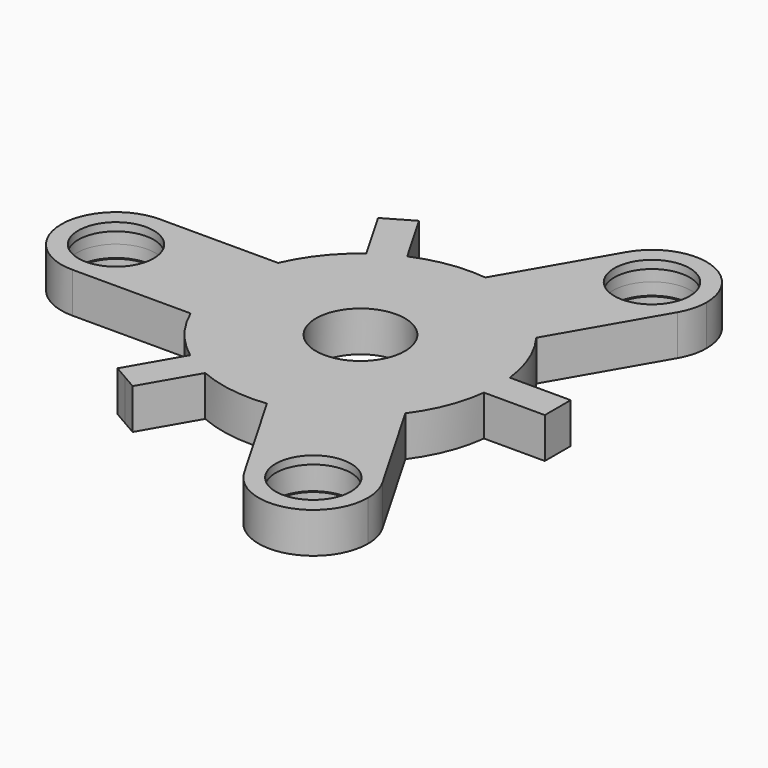
from build123d import *

# Parameters (mm, degrees)
F0_R     = 5.5
F0_R_2   = 4.6625
F1_DEPTH = 2.5
F2_R     = 4.8625
F3_DEPTH = 1.5


with BuildPart() as f1:
    # F0 (on Top) → F1 (new body, symmetric)
    with BuildSketch(Plane.XY):
        with BuildLine():
            Line((24.408629, 2), (16.881943, 2))
            ThreePointArc((16.881943, 2), (15.799858, 6.274111), (13.655032, 10.126209))
            Line((13.655032, 10.126209), (20.975247, 22.805193))
            ThreePointArc((20.975247, 22.805193), (11.7375, 20.329946), (9.262253, 29.567693))
            Line((9.262253, 29.567693), (1.942038, 16.888709))
            ThreePointArc((1.942038, 16.888709), (-2.466389, 16.820134), (-6.708921, 15.620192))
            Line((-6.708921, 15.620192), (-10.472264, 22.138493))
            Line((-10.472264, 22.138493), (-12.204315, 21.138493))
            Line((-12.204315, 21.138493), (-13.936365, 20.138493))
            Line((-13.936365, 20.138493), (-10.173022, 13.620192))
            ThreePointArc((-10.173022, 13.620192), (-13.333469, 10.546023), (-15.59707, 6.7625))
            Line((-15.59707, 6.7625), (-30.2375, 6.7625))
            ThreePointArc((-30.2375, 6.7625), (-25.45569, 4.78181), (-23.475, 0))
            ThreePointArc((-23.475, 0), (-25.45569, -4.78181), (-30.2375, -6.7625))
            Line((-30.2375, -6.7625), (-15.59707, -6.7625))
            ThreePointArc((-15.59707, -6.7625), (-13.333469, -10.546023), (-10.173022, -13.620192))
            Line((-10.173022, -13.620192), (-13.936365, -20.138493))
            Line((-13.936365, -20.138493), (-12.204315, -21.138493))
            Line((-12.204315, -21.138493), (-10.472264, -22.138493))
            Line((-10.472264, -22.138493), (-6.708921, -15.620192))
            ThreePointArc((-6.708921, -15.620192), (-2.466389, -16.820134), (1.942038, -16.888709))
            Line((1.942038, -16.888709), (9.262253, -29.567693))
            ThreePointArc((9.262253, -29.567693), (11.7375, -20.329946), (20.975247, -22.805193))
            Line((20.975247, -22.805193), (13.655032, -10.126209))
            ThreePointArc((13.655032, -10.126209), (15.799858, -6.274111), (16.881943, -2))
            Line((16.881943, -2), (24.408629, -2))
            Line((24.408629, -2), (24.408629, 0))
            Line((24.408629, 0), (24.408629, 2))
        make_face()
        Circle(F0_R, mode=Mode.SUBTRACT)
        with BuildLine():
            ThreePointArc((9.262253, 29.567693), (11.7375, 20.329946), (20.975247, 22.805193))
            ThreePointArc((20.975247, 22.805193), (21.650823, 24.436179), (21.88125, 26.186443))
            ThreePointArc((21.88125, 26.186443), (16.869014, 32.718517), (9.262253, 29.567693))
        make_face()
        with Locations((15.11875, 26.186443)):
            Circle(F0_R_2, mode=Mode.SUBTRACT)
        with BuildLine():
            ThreePointArc((21.88125, -26.186443), (21.650823, -24.436179), (20.975247, -22.805193))
            ThreePointArc((20.975247, -22.805193), (11.7375, -20.329946), (9.262253, -29.567693))
            ThreePointArc((9.262253, -29.567693), (16.869014, -32.718517), (21.88125, -26.186443))
        make_face()
        with Locations((15.11875, -26.186443)):
            Circle(F0_R_2, mode=Mode.SUBTRACT)
        with BuildLine():
            ThreePointArc((-23.475, 0), (-25.45569, 4.78181), (-30.2375, 6.7625))
            ThreePointArc((-30.2375, 6.7625), (-37, 0), (-30.2375, -6.7625))
            ThreePointArc((-30.2375, -6.7625), (-25.45569, -4.78181), (-23.475, 0))
        make_face()
        with Locations((-30.2375, 0)):
            Circle(F0_R_2, mode=Mode.SUBTRACT)
    extrude(amount=F1_DEPTH, both=True)

    # F2 (on Top) → F3 (cut, symmetric)
    with BuildSketch(Plane.XY):
        with Locations((-30.2375, 0)):
            Circle(F2_R)
        with Locations((15.11875, 26.186443)):
            Circle(F2_R)
        with Locations((15.11875, -26.186443)):
            Circle(F2_R)
    extrude(amount=F3_DEPTH, both=True, mode=Mode.SUBTRACT)


solid = f1.part
